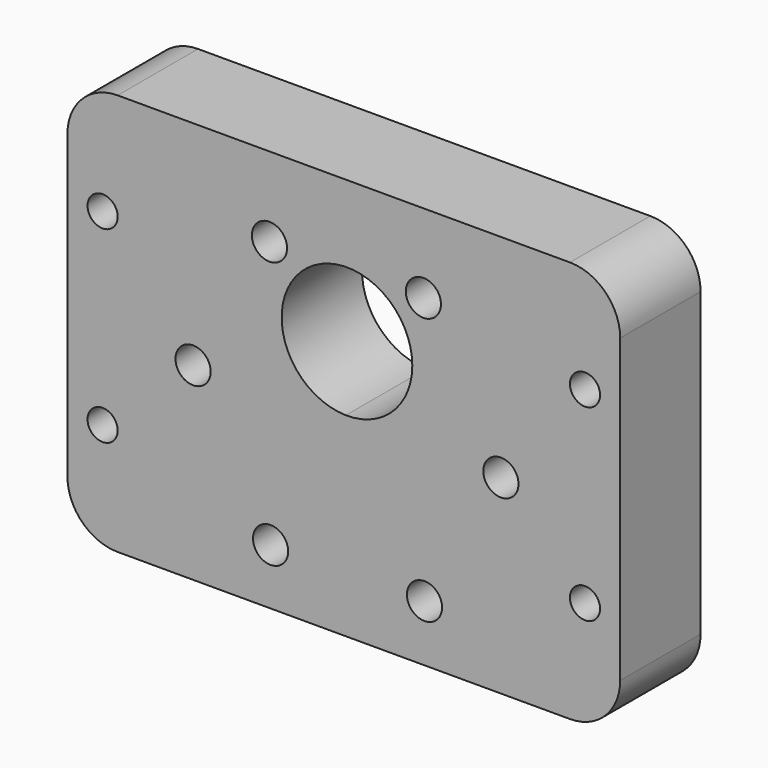
from build123d import *

# Parameters (mm, degrees)
F0_W     = 55
F0_H     = 40
F0_R     = 1.75
F1_DEPTH = 10
F2_R     = 5
F3_R     = 1.5
F4_DEPTH = 25


with BuildPart() as f1:
    # F0 (on Front) → F1 (new body)
    with BuildSketch(Plane.XZ):
        Rectangle(F0_W, F0_H)
        with Locations((-7.2848021371, -14.4358355429)):
            Circle(F0_R, mode=Mode.SUBTRACT)
        with BuildLine():
            ThreePointArc((-13.2479269502, -1.1975721574), (-13.2479153857, -1.2012452699), (-13.2479115309, -1.2049183986))
            ThreePointArc((-13.2479115309, -1.2049183986), (-16.7479076761, -1.2085915273), (-13.2479269502, -1.1975721574))
        make_face(mode=Mode.SUBTRACT)
        with Locations((8.0300629221, -14.3715454379)):
            Circle(F0_R, mode=Mode.SUBTRACT)
        with Locations((15.6318185876, -1.0763381886)):
            Circle(F0_R, mode=Mode.SUBTRACT)
        with Locations((-7.3961558654, 12.0902888507)):
            Circle(F0_R, mode=Mode.SUBTRACT)
        with BuildLine():
            ThreePointArc((6.8169535283, 5.8593717064), (4.871273383, 1.2216814773), (0.1990548634, -0.6395589675))
            ThreePointArc((0.1990548634, -0.6395589675), (-4.2373663264, 10.4970619355), (6.8169535283, 5.8593717064))
        make_face(mode=Mode.SUBTRACT)
        with Locations((7.9187091938, 12.1545789557)):
            Circle(F0_R, mode=Mode.SUBTRACT)
    extrude(amount=F1_DEPTH)

    # F2
    f2_edges = [f1.edges().sort_by_distance(p)[0] for p in [
        (-27.5, -5, 20),
        (-27.5, -5, -20),
        (27.5, -5, -20),
        (27.5, -5, 20),
    ]]
    fillet(f2_edges, radius=F2_R)

    # F3 (on face) → F4 (cut)
    with BuildSketch(Plane.XZ.offset(10)):
        with Locations((-24, 9.3585)):
            Circle(F3_R)
        with Locations((-24, -9.3585)):
            Circle(F3_R)
        with Locations((24, 9.3585)):
            Circle(F3_R)
        with Locations((24, -9.3585)):
            Circle(F3_R)
    extrude(amount=-F4_DEPTH, mode=Mode.SUBTRACT)


solid = f1.part
